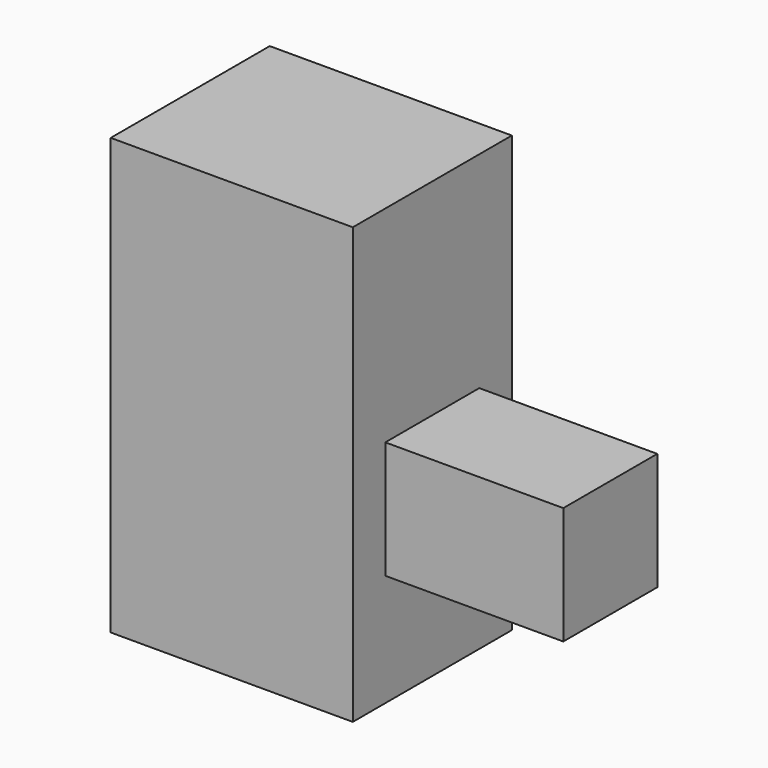
from build123d import *

# Parameters (mm, degrees)
F0_W     = 335
F0_H     = 734
F1_DEPTH = 408
F2_W     = 198
F2_H     = 198
F3_DEPTH = 300


with BuildPart() as f1:
    # F0 (on Right) → F1 (new body)
    with BuildSketch(Plane.YZ):
        with Locations((-3.853569, 367)):
            Rectangle(F0_W, F0_H)
    extrude(amount=-F1_DEPTH)

    # F2 (on face) → F3 (join)
    with BuildSketch(Plane.YZ):
        with Locations((-3.853569, 288)):
            Rectangle(F2_W, F2_H)
    extrude(amount=F3_DEPTH)


solid = f1.part
